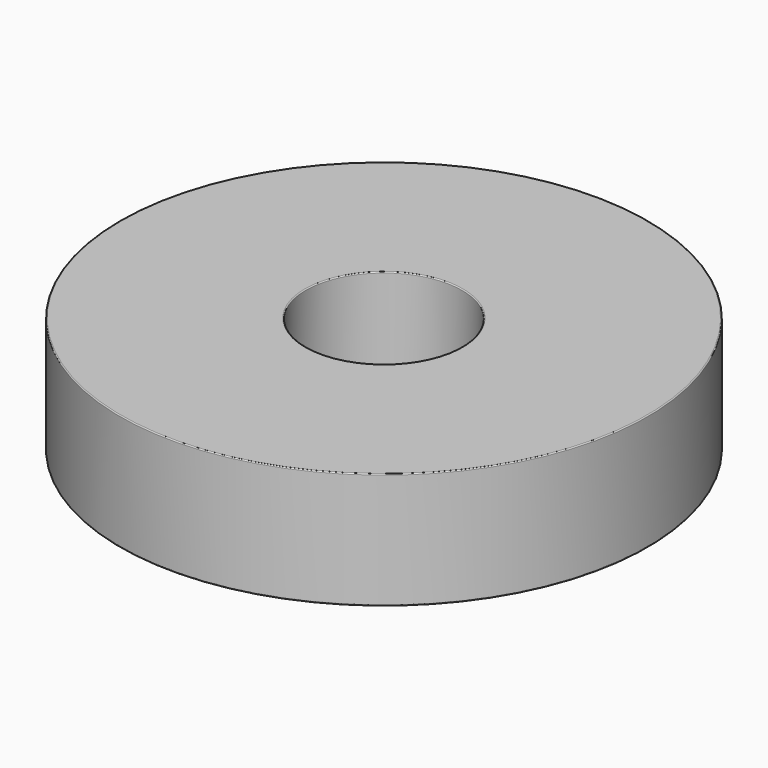
from build123d import *

# Parameters (mm, degrees)
F0_W = 940.1008635759
F0_H = 587.8940969706
F2_R = 5.08


with BuildPart() as f1:
    # F0 (on Front) → F1 (revolve)
    with BuildSketch(Plane.XZ):
        with Locations((-327.0491585135, 101.9546017051)):
            Rectangle(F0_W, F0_H)
    revolve(axis=Axis((537.5788211823, 0, 63.5561272502), (0, 0, -1)))

    # F2
    f2_edges = [f1.edges().sort_by_distance(p)[0] for p in [
        (1872.257233, 0, -191.992447),
        (932.156369, 0, -191.992447),
        (1872.257233, 0, 395.90165),
        (-797.09959, 0, 101.954602),
        (932.156369, 0, 395.90165),
    ]]
    fillet(f2_edges, radius=F2_R)


solid = f1.part
